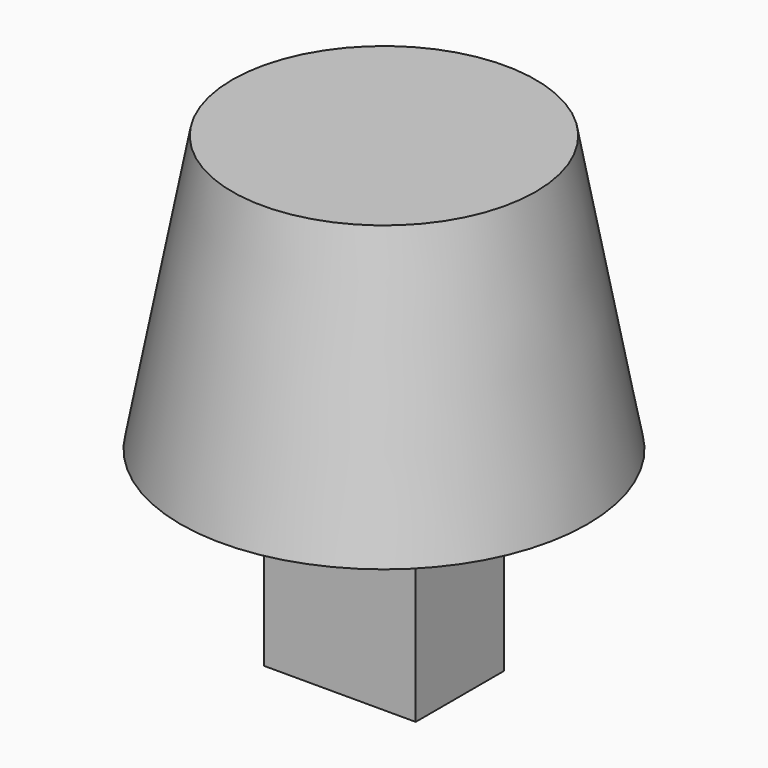
from build123d import *

# Parameters (mm, degrees)
SKETCH_R    = 14.75
SKETCH001_R = 11
SKETCH002_W = 11
SKETCH002_H = 8
PAD_DEPTH   = 14
FILLET_R    = 4


with BuildPart() as part:
    # Sketch → AdditiveLoft section 0
    with BuildSketch(Plane.XY):
        Circle(SKETCH_R)
    # Sketch001 (on DatumPlane) → AdditiveLoft section 1
    with BuildSketch(Plane.XY.offset(20)):
        Circle(SKETCH001_R)
    loft()

    # Sketch002 (on Face1 of AdditiveLoft) → Pad (new body)
    with BuildSketch(Plane(origin=(0, 0, 0), x_dir=(1, 0, 0), z_dir=(0, 0, -1))):
        Rectangle(SKETCH002_W, SKETCH002_H)
    extrude(amount=PAD_DEPTH)

    # Fillet
    fillet_edges = [part.edges().sort_by_distance(p)[0] for p in [
        (5.5, 0, 0),
        (0, -4, 0),
        (0, 4, 0),
        (-5.5, 0, 0),
    ]]
    fillet(fillet_edges, radius=FILLET_R)


solid = part.part
